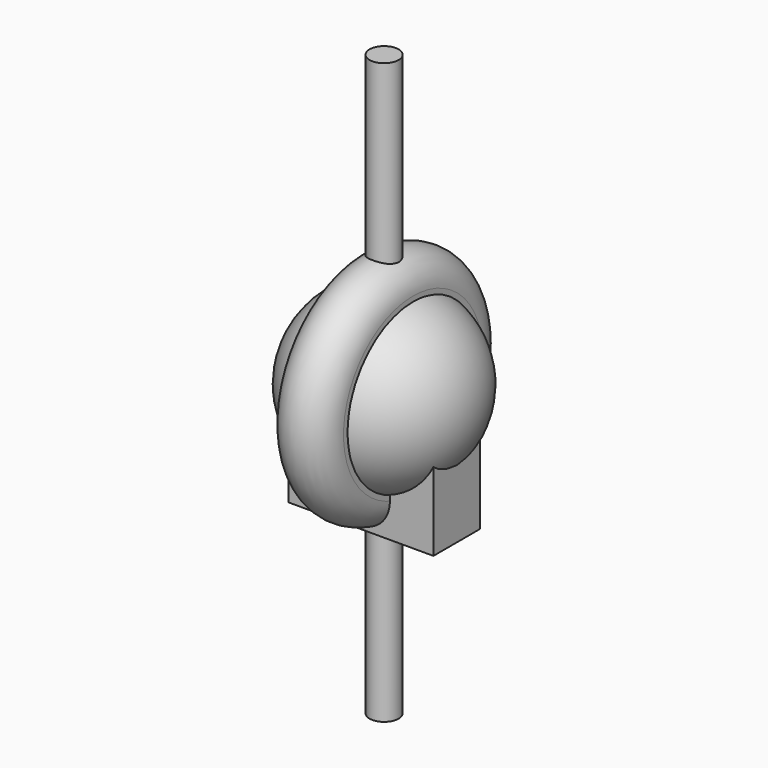
from build123d import *

# Parameters (mm, degrees)
SKETCH001_R  = 5
PAD_DEPTH    = 100
SKETCH005_W  = 50
SKETCH005_H  = 20
PAD003_DEPTH = 40
SKETCH_R     = 1
PAD004_DEPTH = 1
SKETCH006_R  = 5
PAD005_DEPTH = 5


with BuildPart() as rodbody:
    # Sketch001 → Pad (new body, symmetric)
    with BuildSketch(Plane.XY):
        Circle(SKETCH001_R)
    extrude(amount=PAD_DEPTH, both=True)


with BuildPart() as obj1:
    # Sketch004 → Revolution001 (revolve)
    with BuildSketch(Plane.XY):
        with BuildLine():
            Line((-10, 0), (-10, 30))
            ThreePointArc((10, 30), (0, 40), (-10, 30))
            Line((10, 30), (10, 0))
            Line((10, 0), (-10, 0))
        make_face()
    revolve(axis=Axis((0, 0, 0), (1, 0, 0)))


with BuildPart() as groundbody:
    # Sketch005 → Pad003 (new body)
    with BuildSketch(Plane.XY):
        Rectangle(SKETCH005_W, SKETCH005_H)
    extrude(amount=-PAD003_DEPTH)


with BuildPart() as lugbody:
    # Sketch → Pad004 (new body, symmetric)
    with BuildSketch(Plane.XY):
        with BuildLine():
            Line((-5, 0), (-5, 24.99997))
            ThreePointArc((5, 25), (-1.5e-05, 30), (-5, 24.99997))
            Line((5, 25), (5, 0))
            Line((5, 0), (-5, 0))
        make_face()
        with Locations((0, 25)):
            Circle(SKETCH_R, mode=Mode.SUBTRACT)
    extrude(amount=PAD004_DEPTH, both=True)


with BuildPart() as shortrodbody:
    # Sketch006 → Pad005 (new body, symmetric)
    with BuildSketch(Plane.XY):
        Circle(SKETCH006_R)
    extrude(amount=PAD005_DEPTH, both=True)


with BuildPart() as weight:
    # Sketch007 → Revolution (revolve)
    with BuildSketch(Plane.XY):
        with BuildLine():
            ThreePointArc((-5, 29.580399), (-30, 0), (-5, -29.580399))
            Line((-5, 29.580399), (-5, -29.580399))
        make_face()
    revolve(axis=Axis((0, 0, 0), (0, 1, 0)))


solid = Compound([rodbody.part, obj1.part, groundbody.part, lugbody.part, shortrodbody.part, weight.part])
